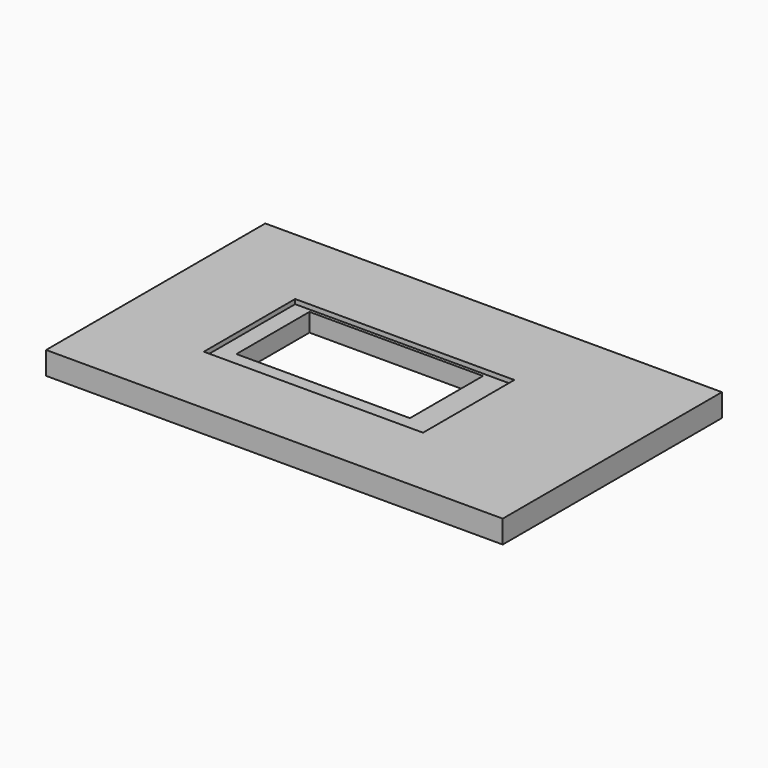
from build123d import *

# Parameters (mm, degrees)
F0_W     = 100
F0_H     = 60
F3_DEPTH = 5
F1_W     = 48
F1_H     = 25
F4_DEPTH = 1
F2_W     = 38
F2_H     = 20
F5_DEPTH = 10


with BuildPart() as f3:
    # F0 (on Top) → F3 (new body)
    with BuildSketch(Plane.XY):
        with Locations((5.838281, -5.227597)):
            Rectangle(F0_W, F0_H)
    extrude(amount=-F3_DEPTH)

    # F1 (on Top) → F4 (cut)
    with BuildSketch(Plane.XY):
        with Locations((1.309254, -6.3852)):
            Rectangle(F1_W, F1_H)
    extrude(amount=-F4_DEPTH, mode=Mode.SUBTRACT)

    # F2 (on face) → F5 (cut)
    with BuildSketch(Plane.XY):
        with Locations((0, -4.581108)):
            Rectangle(F2_W, F2_H)
    extrude(amount=-F5_DEPTH, mode=Mode.SUBTRACT)


solid = f3.part
